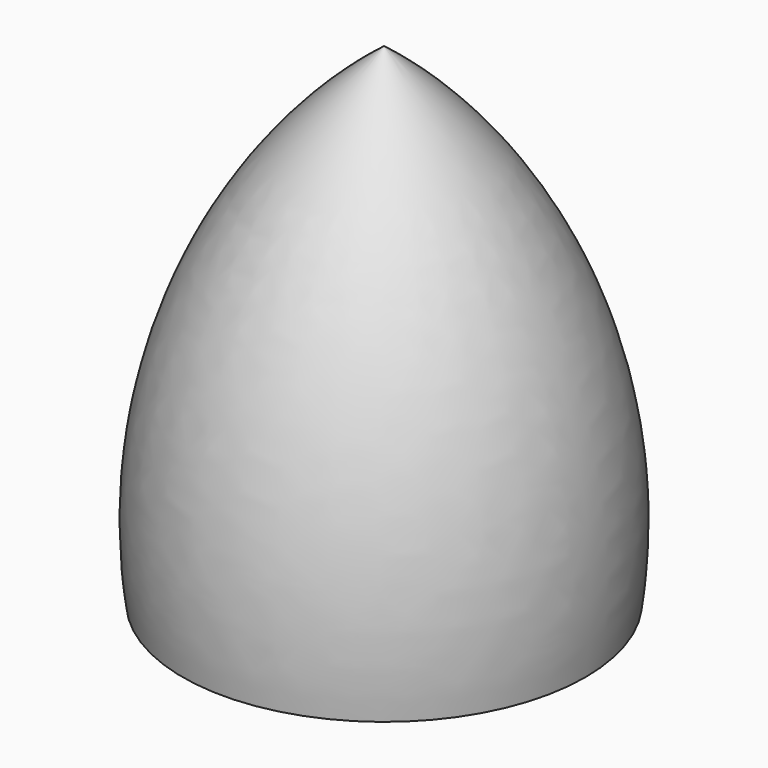
from build123d import *


with BuildPart() as f1:
    # F0 (on Front) → F1 (revolve)
    with BuildSketch(Plane.XZ):
        with BuildLine():
            Line((0, 40.35440003), (0, 35.082754308))
            ThreePointArc((0, 35.082754308), (7.6621003686, 25.6501567872), (12.0551644115, 14.3195492853))
            Line((12.0551644115, 14.3195492853), (12.5598066335, 0.5684985976))
            Line((12.5598066335, 0.5684985976), (16.583846882, 0))
            ThreePointArc((16.583846882, 0), (13.7704949306, 22.4286469613), (0, 40.35440003))
        make_face()
    revolve(axis=Axis((0, 0, 37.718577169), (0, 0, 1)))


solid = f1.part
